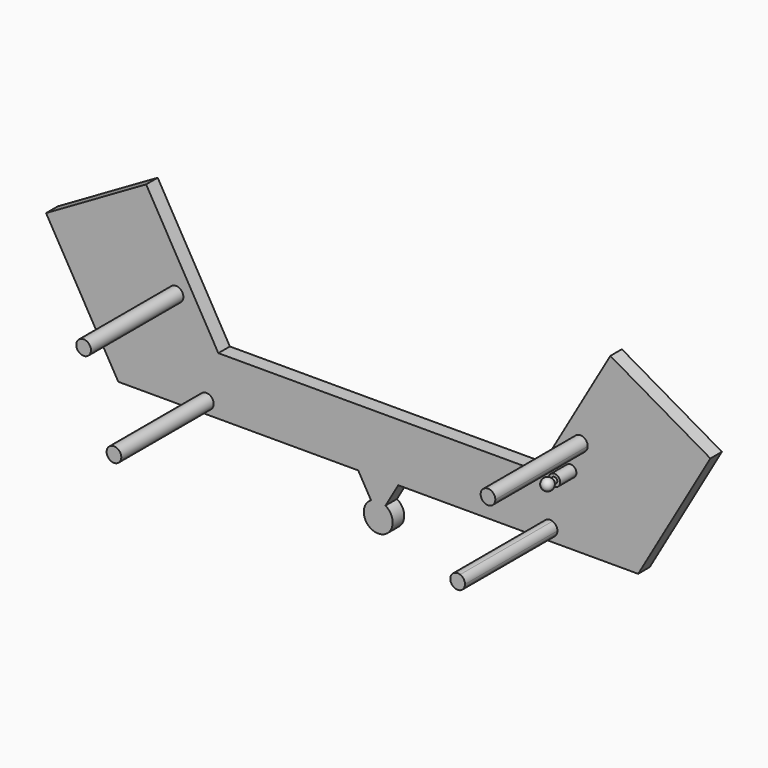
from build123d import *

# Parameters (mm, degrees)
F1_DEPTH = 25
F3_DEPTH = 200
F6_DEPTH = 25


with BuildPart() as f1:
    # F0 (on Front) → F1 (new body)
    with BuildSketch(Plane.XZ):
        Polygon((0, 200), (0, 100), (450, 100), (575, 316.5063509461), (401.7949192431, 416.5063509461), (276.7949192431, 200), align=None)
    extrude(amount=F1_DEPTH)

    # F2 (on face) → F3 (join)
    with BuildSketch(Plane.XZ.offset(25)):
        with BuildLine():
            ThreePointArc((345.7026108616, 254.0491654437), (357.30455878, 255.6108989307), (362.7, 266))
            ThreePointArc((362.7, 266), (342.69544122, 276.3891010693), (345.7026108616, 254.0491654437))
        make_face()
        with BuildLine():
            ThreePointArc((310.2, 120), (307.8891010693, 127.30455878), (301.7973891384, 131.9508345563))
            ThreePointArc((301.7973891384, 131.9508345563), (287.1108989307, 112.69544122), (310.2, 120))
        make_face()
    extrude(amount=F3_DEPTH)

    # F4: F1 across plane


with BuildPart() as f1_1:
    add(f1.part)
    add(f1.part.mirror(Plane.YZ))

    # F5 (on face) → F6 (join)
    with BuildSketch(Plane.XZ.offset(25)):
        with BuildLine():
            Line((-34.6410161514, 100), (-12.5, 61.6506350946))
            ThreePointArc((-12.5, 61.6506350946), (0, 15), (12.5, 61.6506350946))
            Line((12.5, 61.6506350946), (34.6410161514, 100))
            Line((34.6410161514, 100), (-34.6410161514, 100))
        make_face()
    extrude(amount=-F6_DEPTH)

    # F8 (on line) → F9 (revolve)
    with BuildSketch(Plane(origin=(225.2265575507, 0, -80.989001859), x_dir=(0, -1, 0), z_dir=(-0.941010595, 0, 0.3383770975))):
        with BuildLine():
            Line((25, 328.7408023961), (25, 318.7408023961))
            Line((25, 318.7408023961), (85, 318.7408023961))
            ThreePointArc((85, 318.7408023961), (77.588190451, 328.400060659), (66.3397459622, 323.7408023961))
            Line((66.3397459622, 323.7408023961), (60, 323.7408023961))
            Line((60, 323.7408023961), (60, 328.7408023961))
            Line((60, 328.7408023961), (25, 328.7408023961))
        make_face()
    revolve(axis=Axis((333.0811451244, -55, 218.9494702506), (0, -1, 0)))


solid = f1_1.part
